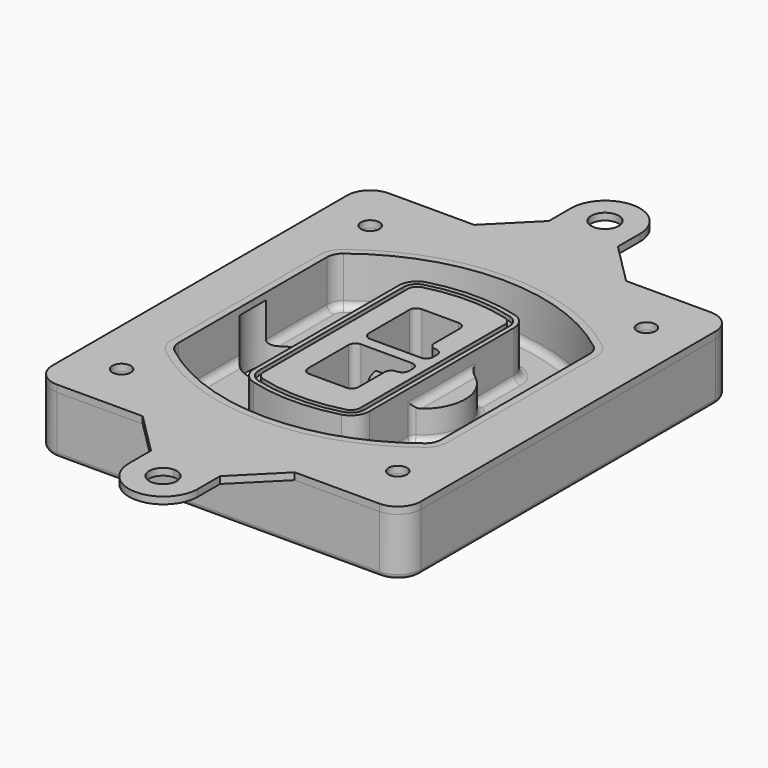
from build123d import *

# Parameters (mm, degrees)
F0_R      = 4
F1_DEPTH  = 25
F2_DEPTH  = 3
F3_DEPTH  = 18
F5_DEPTH  = 21
F6_DEPTH  = 2
F8_DEPTH  = 20
F9_DEPTH  = 16
F10_DEPTH = 25
F7_R      = 6
F7_R_2    = 4
F11_DEPTH = 6
F13_DEPTH = 9
F14_R     = 3
F15_R     = 2
F16_R     = 4
F17_DEPTH = 3


with BuildPart() as f1:
    # F0 (on Top) → F1 (new body)
    with BuildSketch(Plane.XY):
        with BuildLine():
            ThreePointArc((-80, -80), (-77.0710678119, -87.0710678119), (-70, -90))
            Line((-70, -90), (70, -90))
            ThreePointArc((70, -90), (77.0710678119, -87.0710678119), (80, -80))
            Line((80, -80), (80, 80))
            ThreePointArc((80, 80), (77.0710678119, 87.0710678119), (70, 90))
            Line((70, 90), (-70, 90))
            ThreePointArc((-70, 90), (-77.0710678119, 87.0710678119), (-80, 80))
            Line((-80, 80), (-80, -80))
        make_face()
        with Locations((-60, -67.5)):
            Circle(F0_R, mode=Mode.SUBTRACT)
        with Locations((60, -67.5)):
            Circle(F0_R, mode=Mode.SUBTRACT)
        with Locations((-60, 67.5)):
            Circle(F0_R, mode=Mode.SUBTRACT)
        with BuildLine():
            ThreePointArc((-64, 40.2934422872), (-62.5820384798, 46.4328484224), (-58.6153846154, 51.3286200352))
            ThreePointArc((-58.6153846154, 51.3286200352), (0, 71.5), (58.6153846154, 51.3286200352))
            ThreePointArc((58.6153846154, 51.3286200352), (62.5820384798, 46.4328484224), (64, 40.2934422872))
            Line((64, 40.2934422872), (64, -40.2934422872))
            ThreePointArc((64, -40.2934422872), (62.5820384798, -46.4328484224), (58.6153846154, -51.3286200352))
            ThreePointArc((58.6153846154, -51.3286200352), (0, -71.5), (-58.6153846154, -51.3286200352))
            ThreePointArc((-58.6153846154, -51.3286200352), (-62.5820384798, -46.4328484224), (-64, -40.2934422872))
            Line((-64, -40.2934422872), (-64, 40.2934422872))
        make_face(mode=Mode.SUBTRACT)
        with Locations((60, 67.5)):
            Circle(F0_R, mode=Mode.SUBTRACT)
        with BuildLine():
            ThreePointArc((58.6153846154, 51.3286200352), (0, 71.5), (-58.6153846154, 51.3286200352))
            ThreePointArc((-58.6153846154, 51.3286200352), (-62.5820384798, 46.4328484224), (-64, 40.2934422872))
            Line((-64, 40.2934422872), (-64, -40.2934422872))
            ThreePointArc((-64, -40.2934422872), (-62.5820384798, -46.4328484224), (-58.6153846154, -51.3286200352))
            ThreePointArc((-58.6153846154, -51.3286200352), (0, -71.5), (58.6153846154, -51.3286200352))
            ThreePointArc((58.6153846154, -51.3286200352), (62.5820384798, -46.4328484224), (64, -40.2934422872))
            Line((64, -40.2934422872), (64, 40.2934422872))
            ThreePointArc((64, 40.2934422872), (62.5820384798, 46.4328484224), (58.6153846154, 51.3286200352))
        make_face()
        with BuildLine():
            Line((-60, -40.2934422872), (-60, 40.2934422872))
            ThreePointArc((-60, 40.2934422872), (-58.9871703427, 44.6787323838), (-56.1538461538, 48.1757121072))
            ThreePointArc((-56.1538461538, 48.1757121072), (0, 67.5), (56.1538461538, 48.1757121072))
            ThreePointArc((56.1538461538, 48.1757121072), (58.9871703427, 44.6787323838), (60, 40.2934422872))
            Line((60, 40.2934422872), (60, -40.2934422872))
            ThreePointArc((60, -40.2934422872), (58.9871703427, -44.6787323838), (56.1538461538, -48.1757121072))
            ThreePointArc((56.1538461538, -48.1757121072), (0, -67.5), (-56.1538461538, -48.1757121072))
            ThreePointArc((-56.1538461538, -48.1757121072), (-58.9871703427, -44.6787323838), (-60, -40.2934422872))
        make_face(mode=Mode.SUBTRACT)
        with BuildLine():
            ThreePointArc((-56.1538461538, 48.1757121072), (-58.9871703427, 44.6787323838), (-60, 40.2934422872))
            Line((-60, 40.2934422872), (-60, -40.2934422872))
            ThreePointArc((-60, -40.2934422872), (-58.9871703427, -44.6787323838), (-56.1538461538, -48.1757121072))
            ThreePointArc((-56.1538461538, -48.1757121072), (0, -67.5), (56.1538461538, -48.1757121072))
            ThreePointArc((56.1538461538, -48.1757121072), (58.9871703427, -44.6787323838), (60, -40.2934422872))
            Line((60, -40.2934422872), (60, 40.2934422872))
            ThreePointArc((60, 40.2934422872), (58.9871703427, 44.6787323838), (56.1538461538, 48.1757121072))
            ThreePointArc((56.1538461538, 48.1757121072), (0, 67.5), (-56.1538461538, 48.1757121072))
        make_face()
        with BuildLine():
            ThreePointArc((54.3076923077, 45.8110311612), (56.2910192399, 43.3631453548), (57, 40.2934422872))
            Line((57, 40.2934422872), (57, -40.2934422872))
            ThreePointArc((57, -40.2934422872), (56.2910192399, -43.3631453548), (54.3076923077, -45.8110311612))
            ThreePointArc((54.3076923077, -45.8110311612), (0, -64.5), (-54.3076923077, -45.8110311612))
            ThreePointArc((-54.3076923077, -45.8110311612), (-56.2910192399, -43.3631453548), (-57, -40.2934422872))
            Line((-57, -40.2934422872), (-57, 40.2934422872))
            ThreePointArc((-57, 40.2934422872), (-56.2910192399, 43.3631453548), (-54.3076923077, 45.8110311612))
            ThreePointArc((-54.3076923077, 45.8110311612), (0, 64.5), (54.3076923077, 45.8110311612))
        make_face(mode=Mode.SUBTRACT)
        with BuildLine():
            Line((57, -40.2934422872), (57, 40.2934422872))
            ThreePointArc((57, 40.2934422872), (56.2910192399, 43.3631453548), (54.3076923077, 45.8110311612))
            ThreePointArc((54.3076923077, 45.8110311612), (0, 64.5), (-54.3076923077, 45.8110311612))
            ThreePointArc((-54.3076923077, 45.8110311612), (-56.2910192399, 43.3631453548), (-57, 40.2934422872))
            Line((-57, 40.2934422872), (-57, -40.2934422872))
            ThreePointArc((-57, -40.2934422872), (-56.2910192399, -43.3631453548), (-54.3076923077, -45.8110311612))
            ThreePointArc((-54.3076923077, -45.8110311612), (0, -64.5), (54.3076923077, -45.8110311612))
            ThreePointArc((54.3076923077, -45.8110311612), (56.2910192399, -43.3631453548), (57, -40.2934422872))
        make_face()
    extrude(amount=-F1_DEPTH)

    # F0 (on Top) → F2 (join)
    with BuildSketch(Plane.XY):
        with BuildLine():
            ThreePointArc((-56.1538461538, 48.1757121072), (-58.9871703427, 44.6787323838), (-60, 40.2934422872))
            Line((-60, 40.2934422872), (-60, -40.2934422872))
            ThreePointArc((-60, -40.2934422872), (-58.9871703427, -44.6787323838), (-56.1538461538, -48.1757121072))
            ThreePointArc((-56.1538461538, -48.1757121072), (0, -67.5), (56.1538461538, -48.1757121072))
            ThreePointArc((56.1538461538, -48.1757121072), (58.9871703427, -44.6787323838), (60, -40.2934422872))
            Line((60, -40.2934422872), (60, 40.2934422872))
            ThreePointArc((60, 40.2934422872), (58.9871703427, 44.6787323838), (56.1538461538, 48.1757121072))
            ThreePointArc((56.1538461538, 48.1757121072), (0, 67.5), (-56.1538461538, 48.1757121072))
        make_face()
        with BuildLine():
            ThreePointArc((54.3076923077, 45.8110311612), (56.2910192399, 43.3631453548), (57, 40.2934422872))
            Line((57, 40.2934422872), (57, -40.2934422872))
            ThreePointArc((57, -40.2934422872), (56.2910192399, -43.3631453548), (54.3076923077, -45.8110311612))
            ThreePointArc((54.3076923077, -45.8110311612), (0, -64.5), (-54.3076923077, -45.8110311612))
            ThreePointArc((-54.3076923077, -45.8110311612), (-56.2910192399, -43.3631453548), (-57, -40.2934422872))
            Line((-57, -40.2934422872), (-57, 40.2934422872))
            ThreePointArc((-57, 40.2934422872), (-56.2910192399, 43.3631453548), (-54.3076923077, 45.8110311612))
            ThreePointArc((-54.3076923077, 45.8110311612), (0, 64.5), (54.3076923077, 45.8110311612))
        make_face(mode=Mode.SUBTRACT)
    extrude(amount=F2_DEPTH)

    # F0 (on Top) → F3 (cut)
    with BuildSketch(Plane.XY):
        with BuildLine():
            Line((57, -40.2934422872), (57, 40.2934422872))
            ThreePointArc((57, 40.2934422872), (56.2910192399, 43.3631453548), (54.3076923077, 45.8110311612))
            ThreePointArc((54.3076923077, 45.8110311612), (0, 64.5), (-54.3076923077, 45.8110311612))
            ThreePointArc((-54.3076923077, 45.8110311612), (-56.2910192399, 43.3631453548), (-57, 40.2934422872))
            Line((-57, 40.2934422872), (-57, -40.2934422872))
            ThreePointArc((-57, -40.2934422872), (-56.2910192399, -43.3631453548), (-54.3076923077, -45.8110311612))
            ThreePointArc((-54.3076923077, -45.8110311612), (0, -64.5), (54.3076923077, -45.8110311612))
            ThreePointArc((54.3076923077, -45.8110311612), (56.2910192399, -43.3631453548), (57, -40.2934422872))
        make_face()
    extrude(amount=-F3_DEPTH, mode=Mode.SUBTRACT)

    # F4 (on face) → F5 (join, through all)
    with BuildSketch(Plane.XY.offset(3)):
        with BuildLine():
            ThreePointArc((-25, -39.2465276821), (-23.3511545998, -44.1109737193), (-19.0842911877, -46.9702398883))
            ThreePointArc((-19.0842911877, -46.9702398883), (0, -49.5), (19.0842911877, -46.9702398883))
            ThreePointArc((19.0842911877, -46.9702398883), (23.3511545998, -44.1109737193), (25, -39.2465276821))
            Line((25, -39.2465276821), (25, 39.2465276821))
            ThreePointArc((25, 39.2465276821), (23.3511545998, 44.1109737193), (19.0842911877, 46.9702398883))
            ThreePointArc((19.0842911877, 46.9702398883), (0, 49.5), (-19.0842911877, 46.9702398883))
            ThreePointArc((-19.0842911877, 46.9702398883), (-23.3511545998, 44.1109737193), (-25, 39.2465276821))
            Line((-25, 39.2465276821), (-25, -39.2465276821))
        make_face()
        with BuildLine():
            ThreePointArc((18.5632183908, 45.0393118368), (21.7633659499, 42.89486221), (23, 39.2465276821))
            Line((23, 39.2465276821), (23, -39.2465276821))
            ThreePointArc((23, -39.2465276821), (21.7633659499, -42.89486221), (18.5632183908, -45.0393118368))
            ThreePointArc((18.5632183908, -45.0393118368), (0, -47.5), (-18.5632183908, -45.0393118368))
            ThreePointArc((-18.5632183908, -45.0393118368), (-21.7633659499, -42.89486221), (-23, -39.2465276821))
            Line((-23, -39.2465276821), (-23, 39.2465276821))
            ThreePointArc((-23, 39.2465276821), (-21.7633659499, 42.89486221), (-18.5632183908, 45.0393118368))
            ThreePointArc((-18.5632183908, 45.0393118368), (0, 47.5), (18.5632183908, 45.0393118368))
        make_face(mode=Mode.SUBTRACT)
        with BuildLine():
            Line((23, -39.2465276821), (23, 39.2465276821))
            ThreePointArc((23, 39.2465276821), (21.7633659499, 42.89486221), (18.5632183908, 45.0393118368))
            ThreePointArc((18.5632183908, 45.0393118368), (0, 47.5), (-18.5632183908, 45.0393118368))
            ThreePointArc((-18.5632183908, 45.0393118368), (-21.7633659499, 42.89486221), (-23, 39.2465276821))
            Line((-23, 39.2465276821), (-23, -39.2465276821))
            ThreePointArc((-23, -39.2465276821), (-21.7633659499, -42.89486221), (-18.5632183908, -45.0393118368))
            ThreePointArc((-18.5632183908, -45.0393118368), (0, -47.5), (18.5632183908, -45.0393118368))
            ThreePointArc((18.5632183908, -45.0393118368), (21.7633659499, -42.89486221), (23, -39.2465276821))
        make_face()
        with BuildLine():
            ThreePointArc((18.0421455939, 43.1083837852), (20.1755772999, 41.6787507007), (21, 39.2465276821))
            Line((21, 39.2465276821), (21, -39.2465276821))
            ThreePointArc((21, -39.2465276821), (20.1755772999, -41.6787507007), (18.0421455939, -43.1083837852))
            ThreePointArc((18.0421455939, -43.1083837852), (0, -45.5), (-18.0421455939, -43.1083837852))
            ThreePointArc((-18.0421455939, -43.1083837852), (-20.1755772999, -41.6787507007), (-21, -39.2465276821))
            Line((-21, -39.2465276821), (-21, 39.2465276821))
            ThreePointArc((-21, 39.2465276821), (-20.1755772999, 41.6787507007), (-18.0421455939, 43.1083837852))
            ThreePointArc((-18.0421455939, 43.1083837852), (0, 45.5), (18.0421455939, 43.1083837852))
        make_face(mode=Mode.SUBTRACT)
        with BuildLine():
            Line((21, -39.2465276821), (21, 39.2465276821))
            ThreePointArc((21, 39.2465276821), (20.1755772999, 41.6787507007), (18.0421455939, 43.1083837852))
            ThreePointArc((18.0421455939, 43.1083837852), (0, 45.5), (-18.0421455939, 43.1083837852))
            ThreePointArc((-18.0421455939, 43.1083837852), (-20.1755772999, 41.6787507007), (-21, 39.2465276821))
            Line((-21, 39.2465276821), (-21, -39.2465276821))
            ThreePointArc((-21, -39.2465276821), (-20.1755772999, -41.6787507007), (-18.0421455939, -43.1083837852))
            ThreePointArc((-18.0421455939, -43.1083837852), (0, -45.5), (18.0421455939, -43.1083837852))
            ThreePointArc((18.0421455939, -43.1083837852), (20.1755772999, -41.6787507007), (21, -39.2465276821))
        make_face()
        with BuildLine():
            Line((-8, -2.5), (14, -2.5))
            ThreePointArc((14, -2.5), (16.1213203436, -3.3786796564), (17, -5.5))
            Line((17, -5.5), (17, -7.5))
            ThreePointArc((17, -7.5), (16.1213203436, -9.6213203436), (14, -10.5))
            ThreePointArc((14, -10.5), (11.8786796564, -11.3786796564), (11, -13.5))
            Line((11, -13.5), (11, -27.5))
            ThreePointArc((11, -27.5), (10.1213203436, -29.6213203436), (8, -30.5))
            Line((8, -30.5), (-8, -30.5))
            ThreePointArc((-8, -30.5), (-10.1213203436, -29.6213203436), (-11, -27.5))
            Line((-11, -27.5), (-11, -5.5))
            ThreePointArc((-11, -5.5), (-10.1213203436, -3.3786796564), (-8, -2.5))
        make_face(mode=Mode.SUBTRACT)
        with BuildLine():
            ThreePointArc((-8, 2.5), (-10.1213203436, 3.3786796564), (-11, 5.5))
            Line((-11, 5.5), (-11, 27.5))
            ThreePointArc((-11, 27.5), (-10.1213203436, 29.6213203436), (-8, 30.5))
            Line((-8, 30.5), (8, 30.5))
            ThreePointArc((8, 30.5), (10.1213203436, 29.6213203436), (11, 27.5))
            Line((11, 27.5), (11, 13.5))
            ThreePointArc((11, 13.5), (11.8786796564, 11.3786796564), (14, 10.5))
            ThreePointArc((14, 10.5), (16.1213203436, 9.6213203436), (17, 7.5))
            Line((17, 7.5), (17, 5.5))
            ThreePointArc((17, 5.5), (16.1213203436, 3.3786796564), (14, 2.5))
            Line((14, 2.5), (-8, 2.5))
        make_face(mode=Mode.SUBTRACT)
    extrude(amount=-F5_DEPTH)

    # F4 (on face) → F6 (cut)
    with BuildSketch(Plane.XY.offset(3)):
        with BuildLine():
            Line((23, -39.2465276821), (23, 39.2465276821))
            ThreePointArc((23, 39.2465276821), (21.7633659499, 42.89486221), (18.5632183908, 45.0393118368))
            ThreePointArc((18.5632183908, 45.0393118368), (0, 47.5), (-18.5632183908, 45.0393118368))
            ThreePointArc((-18.5632183908, 45.0393118368), (-21.7633659499, 42.89486221), (-23, 39.2465276821))
            Line((-23, 39.2465276821), (-23, -39.2465276821))
            ThreePointArc((-23, -39.2465276821), (-21.7633659499, -42.89486221), (-18.5632183908, -45.0393118368))
            ThreePointArc((-18.5632183908, -45.0393118368), (0, -47.5), (18.5632183908, -45.0393118368))
            ThreePointArc((18.5632183908, -45.0393118368), (21.7633659499, -42.89486221), (23, -39.2465276821))
        make_face()
        with BuildLine():
            ThreePointArc((18.0421455939, 43.1083837852), (20.1755772999, 41.6787507007), (21, 39.2465276821))
            Line((21, 39.2465276821), (21, -39.2465276821))
            ThreePointArc((21, -39.2465276821), (20.1755772999, -41.6787507007), (18.0421455939, -43.1083837852))
            ThreePointArc((18.0421455939, -43.1083837852), (0, -45.5), (-18.0421455939, -43.1083837852))
            ThreePointArc((-18.0421455939, -43.1083837852), (-20.1755772999, -41.6787507007), (-21, -39.2465276821))
            Line((-21, -39.2465276821), (-21, 39.2465276821))
            ThreePointArc((-21, 39.2465276821), (-20.1755772999, 41.6787507007), (-18.0421455939, 43.1083837852))
            ThreePointArc((-18.0421455939, 43.1083837852), (0, 45.5), (18.0421455939, 43.1083837852))
        make_face(mode=Mode.SUBTRACT)
    extrude(amount=-F6_DEPTH, mode=Mode.SUBTRACT)

    # F7 (on face) → F8 (join)
    with BuildSketch(Plane(origin=(0, 0, -25), x_dir=(1, 0, 0), z_dir=(0, 0, -1))):
        with BuildLine():
            ThreePointArc((3.28842436, 0), (16.7567035675, 13.4682792075), (30.224982775, 0))
            Line((30.224982775, 0), (35.224982775, 0))
            ThreePointArc((35.224982775, 0), (16.7567035675, 18.4682792075), (-1.71157564, 0))
            Line((-1.71157564, 0), (3.28842436, 0))
        make_face()
        with BuildLine():
            Line((3.28842436, 0), (30.224982775, 0))
            ThreePointArc((30.224982775, 0), (16.7567035675, 13.4682792075), (3.28842436, 0))
        make_face()
        with BuildLine():
            ThreePointArc((3.28842436, 0), (16.7567035675, -13.4682792075), (30.224982775, 0))
            Line((30.224982775, 0), (3.28842436, 0))
        make_face()
        with BuildLine():
            Line((35.224982775, 0), (30.224982775, 0))
            ThreePointArc((30.224982775, 0), (16.7567035675, -13.4682792075), (3.28842436, 0))
            Line((3.28842436, 0), (-1.71157564, 0))
            ThreePointArc((-1.71157564, 0), (16.7567035675, -18.4682792075), (35.224982775, 0))
        make_face()
    extrude(amount=-F8_DEPTH)

    # F7 (on face) → F9 (cut)
    with BuildSketch(Plane(origin=(0, 0, -25), x_dir=(1, 0, 0), z_dir=(0, 0, -1))):
        with BuildLine():
            Line((3.28842436, 0), (30.224982775, 0))
            ThreePointArc((30.224982775, 0), (16.7567035675, 13.4682792075), (3.28842436, 0))
        make_face()
        with BuildLine():
            ThreePointArc((3.28842436, 0), (16.7567035675, -13.4682792075), (30.224982775, 0))
            Line((30.224982775, 0), (3.28842436, 0))
        make_face()
    extrude(amount=-F9_DEPTH, mode=Mode.SUBTRACT)

    # F7 (on face) → F10 (cut)
    with BuildSketch(Plane(origin=(0, 0, -25), x_dir=(1, 0, 0), z_dir=(0, 0, -1))):
        with BuildLine():
            Line((-59.0318229325, 0), (-32.0952645175, 0))
            ThreePointArc((-32.0952645175, 0), (-45.563543725, 13.4682792075), (-59.0318229325, 0))
        make_face()
        with BuildLine():
            ThreePointArc((-59.0318229325, 0), (-45.563543725, -13.4682792075), (-32.0952645175, 0))
            Line((-32.0952645175, 0), (-59.0318229325, 0))
        make_face()
    extrude(amount=-F10_DEPTH, mode=Mode.SUBTRACT)

    # F7 (on face) → F11 (cut)
    with BuildSketch(Plane(origin=(0, 0, -25), x_dir=(1, 0, 0), z_dir=(0, 0, -1))):
        with Locations((60, -67.5)):
            Circle(F7_R)
        with Locations((60, -67.5)):
            Circle(F7_R_2, mode=Mode.SUBTRACT)
        with Locations((60, -67.5)):
            Circle(F7_R)
        with Locations((60, -67.5)):
            Circle(F7_R_2, mode=Mode.SUBTRACT)
        with Locations((-60, -67.5)):
            Circle(F7_R)
        with Locations((-60, -67.5)):
            Circle(F7_R_2, mode=Mode.SUBTRACT)
        with Locations((-60, -67.5)):
            Circle(F7_R)
        with Locations((-60, -67.5)):
            Circle(F7_R_2, mode=Mode.SUBTRACT)
        with Locations((-60, 67.5)):
            Circle(F7_R)
        with Locations((-60, 67.5)):
            Circle(F7_R_2, mode=Mode.SUBTRACT)
        with Locations((-60, 67.5)):
            Circle(F7_R)
        with Locations((-60, 67.5)):
            Circle(F7_R_2, mode=Mode.SUBTRACT)
        with Locations((60, 67.5)):
            Circle(F7_R)
        with Locations((60, 67.5)):
            Circle(F7_R_2, mode=Mode.SUBTRACT)
        with Locations((60, 67.5)):
            Circle(F7_R)
        with Locations((60, 67.5)):
            Circle(F7_R_2, mode=Mode.SUBTRACT)
    extrude(amount=-F11_DEPTH, mode=Mode.SUBTRACT)

    # F12 (on face) → F13 (cut, through all)
    with BuildSketch(Plane(origin=(0, 0, -9), x_dir=(1, 0, 0), z_dir=(0, 0, -1))):
        with BuildLine():
            Line((11, 13.5), (11, 17.5481537753))
            ThreePointArc((11, 17.5481537753), (2.5696536419, 11.8239143813), (-1.5415842455, 2.5))
            Line((-1.5415842455, 2.5), (3.5224848595, 2.5))
            ThreePointArc((3.5224848595, 2.5), (6.1857188154, 8.3455872281), (11.2536447004, 12.2927168648))
            ThreePointArc((11.2536447004, 12.2927168648), (11.0640958889, 12.8831798879), (11, 13.5))
        make_face()
        with BuildLine():
            ThreePointArc((11.2536447004, -12.2927168648), (6.1857188154, -8.3455872281), (3.5224848595, -2.5))
            Line((3.5224848595, -2.5), (-1.5415842455, -2.5))
            ThreePointArc((-1.5415842455, -2.5), (2.5696536419, -11.8239143813), (11, -17.5481537753))
            Line((11, -17.5481537753), (11, -13.5))
            ThreePointArc((11, -13.5), (11.0640958889, -12.8831798879), (11.2536447004, -12.2927168648))
        make_face()
        with BuildLine():
            ThreePointArc((11.2536447004, 12.2927168648), (6.1857188154, 8.3455872281), (3.5224848595, 2.5))
            Line((3.5224848595, 2.5), (14, 2.5))
            ThreePointArc((14, 2.5), (16.1213203436, 3.3786796564), (17, 5.5))
            Line((17, 5.5), (17, 7.5))
            ThreePointArc((17, 7.5), (16.1213203436, 9.6213203436), (14, 10.5))
            ThreePointArc((14, 10.5), (12.3601599782, 10.9878446101), (11.2536447004, 12.2927168648))
        make_face()
        with BuildLine():
            Line((14, -2.5), (3.5224848595, -2.5))
            ThreePointArc((3.5224848595, -2.5), (6.1857188154, -8.3455872281), (11.2536447004, -12.2927168648))
            ThreePointArc((11.2536447004, -12.2927168648), (12.3601599782, -10.9878446101), (14, -10.5))
            ThreePointArc((14, -10.5), (16.1213203436, -9.6213203436), (17, -7.5))
            Line((17, -7.5), (17, -5.5))
            ThreePointArc((17, -5.5), (16.1213203436, -3.3786796564), (14, -2.5))
        make_face()
    extrude(amount=F13_DEPTH, mode=Mode.SUBTRACT)

    # F14
    f14_edges = [f1.edges().sort_by_distance(p)[0] for p in [
        (-57, -23.703476, -18),
        (-57, 23.703476, -18),
        (25, 0, -5),
        (25, 16.526506, -11.5),
        (25, -16.526506, -11.5),
        (25, -27.886517, -18),
        (35.224983, 0, -18),
    ]]
    fillet(f14_edges, radius=F14_R)

    # F15
    f15_edges = [f1.edges().sort_by_distance(p)[0] for p in [
        (0, -90, -25),
    ]]
    fillet(f15_edges, radius=F15_R)


with BuildPart() as f17:
    # F16 (on face) → F17 (new body, through all)
    with BuildSketch(Plane.XY):
        with BuildLine():
            Line((-32.815679818, 90), (0, 90))
            Line((0, 90), (33.184320182, 90))
            Line((33.184320182, 90), (15.184320182, 108))
            Line((15.184320182, 108), (15.184320182, 120))
            ThreePointArc((15.184320182, 120), (0.184320182, 135), (-14.815679818, 120))
            Line((-14.815679818, 120), (-14.815679818, 108))
            Line((-14.815679818, 108), (-32.815679818, 90))
        make_face()
        with BuildLine():
            ThreePointArc((6, 120), (4.2426406871, 115.7573593129), (0, 114))
            ThreePointArc((0, 114), (-4.2426406871, 124.2426406871), (6, 120))
        make_face(mode=Mode.SUBTRACT)
        with BuildLine():
            Line((0, -90), (-32.815679818, -90))
            Line((-32.815679818, -90), (-14.815679818, -108))
            Line((-14.815679818, -108), (-14.815679818, -120))
            ThreePointArc((-14.815679818, -120), (0.184320182, -135), (15.184320182, -120))
            Line((15.184320182, -120), (15.184320182, -108))
            Line((15.184320182, -108), (33.184320182, -90))
            Line((33.184320182, -90), (0, -90))
        make_face()
        with BuildLine():
            ThreePointArc((6, -120), (-4.2426406871, -124.2426406871), (0, -114))
            ThreePointArc((0, -114), (4.2426406871, -115.7573593129), (6, -120))
        make_face(mode=Mode.SUBTRACT)
        with BuildLine():
            Line((33.184320182, 90), (0, 90))
            Line((0, 90), (-32.815679818, 90))
            Line((-32.815679818, 90), (-70, 90))
            ThreePointArc((-70, 90), (-77.0710678119, 87.0710678119), (-80, 80))
            Line((-80, 80), (-80, -80))
            ThreePointArc((-80, -80), (-77.0710678119, -87.0710678119), (-70, -90))
            Line((-70, -90), (-32.815679818, -90))
            Line((-32.815679818, -90), (0, -90))
            Line((0, -90), (33.184320182, -90))
            Line((33.184320182, -90), (70, -90))
            ThreePointArc((70, -90), (77.0710678119, -87.0710678119), (80, -80))
            Line((80, -80), (80, 80))
            ThreePointArc((80, 80), (77.0710678119, 87.0710678119), (70, 90))
            Line((70, 90), (33.184320182, 90))
        make_face()
        with Locations((-60, -67.5)):
            Circle(F16_R, mode=Mode.SUBTRACT)
        with Locations((60, -67.5)):
            Circle(F16_R, mode=Mode.SUBTRACT)
        with Locations((-60, 67.5)):
            Circle(F16_R, mode=Mode.SUBTRACT)
        with BuildLine():
            ThreePointArc((-60, 40.2934422872), (-58.9871703427, 44.6787323838), (-56.1538461538, 48.1757121072))
            ThreePointArc((-56.1538461538, 48.1757121072), (0, 67.5), (56.1538461538, 48.1757121072))
            ThreePointArc((56.1538461538, 48.1757121072), (58.9871703427, 44.6787323838), (60, 40.2934422872))
            Line((60, 40.2934422872), (60, -40.2934422872))
            ThreePointArc((60, -40.2934422872), (58.9871703427, -44.6787323838), (56.1538461538, -48.1757121072))
            ThreePointArc((56.1538461538, -48.1757121072), (0, -67.5), (-56.1538461538, -48.1757121072))
            ThreePointArc((-56.1538461538, -48.1757121072), (-58.9871703427, -44.6787323838), (-60, -40.2934422872))
            Line((-60, -40.2934422872), (-60, 40.2934422872))
        make_face(mode=Mode.SUBTRACT)
        with Locations((60, 67.5)):
            Circle(F16_R, mode=Mode.SUBTRACT)
    extrude(amount=F17_DEPTH)


solid = Compound([f1.part, f17.part])
